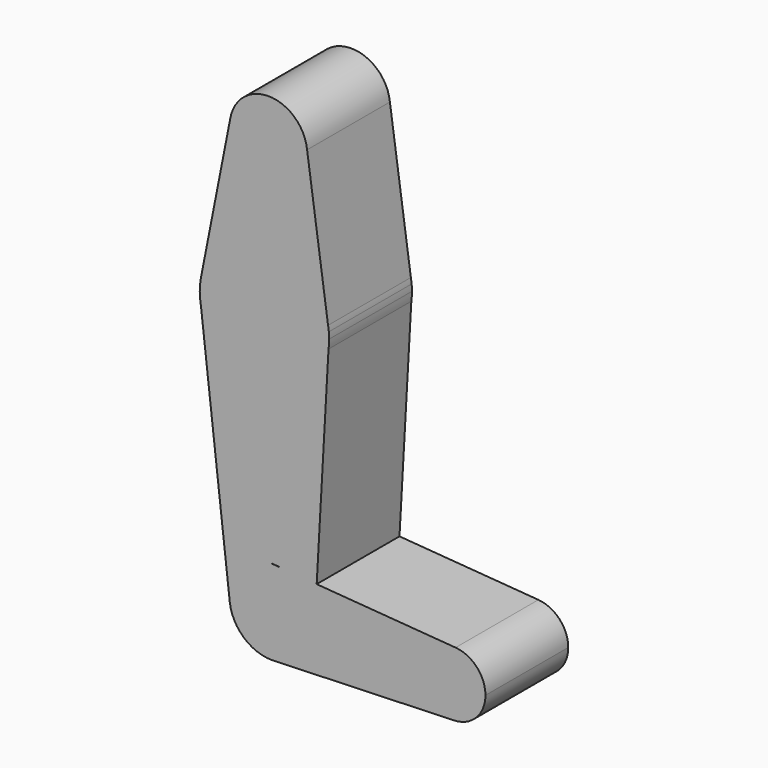
from build123d import *

# Parameters (mm, degrees)
F1_DEPTH = 25.4


with BuildPart() as f1:
    # F0 (on Front) → F1 (new body)
    with BuildSketch(Plane.XZ):
        with BuildLine():
            ThreePointArc((-25.270923, 80.211686), (-16.685877, 69.118101), (-6.356709, 78.609094))
            ThreePointArc((-6.356709, 78.609094), (-6.370167, 79.115242), (-6.410502, 79.61996))
            ThreePointArc((-6.410502, 79.61996), (-15.583019, 88.129409), (-25.270923, 80.211686))
        make_face()
        with BuildLine():
            ThreePointArc((-6.410502, 79.61996), (-6.370167, 79.115242), (-6.356709, 78.609094))
            ThreePointArc((-6.356709, 78.609094), (-16.685877, 69.118101), (-25.270923, 80.211686))
            Line((-25.270923, 80.211686), (-32.456549, 43.534504))
            ThreePointArc((-32.456549, 43.534504), (-16.797117, 56.357165), (-1.268692, 43.376162))
            Line((-1.268692, 43.376162), (-6.410502, 79.61996))
        make_face()
        with BuildLine():
            Line((-1.07973, 42.044204), (-1.268692, 43.376162))
            ThreePointArc((-1.268692, 43.376162), (-16.797117, 56.357165), (-32.456549, 43.534504))
            Line((-32.456549, 43.534504), (-32.456549, 37.430235))
            ThreePointArc((-32.456549, 37.430235), (-16.444514, 24.613281), (-1.155568, 38.284701))
            ThreePointArc((-1.155568, 38.284701), (-1.040974, 39.380881), (-1.002714, 40.482369))
            ThreePointArc((-1.002714, 40.482369), (-1.02198, 41.264236), (-1.07973, 42.044204))
        make_face()
        with BuildLine():
            ThreePointArc((-1.07973, 42.044204), (-1.160095, 42.712186), (-1.268692, 43.376162))
            Line((-1.268692, 43.376162), (-1.07973, 42.044204))
        make_face()
        with BuildLine():
            Line((-32.456549, 37.430235), (-32.456549, 43.534504))
            ThreePointArc((-32.456549, 43.534504), (-32.752714, 40.482369), (-32.456549, 37.430235))
        make_face()
        with BuildLine():
            ThreePointArc((-1.155568, 38.284701), (-16.444514, 24.613281), (-32.456549, 37.430235))
            Line((-32.456549, 37.430235), (-25.390898, -24.178508))
            ThreePointArc((-25.390898, -24.178508), (-22.914287, -16.16678), (-15.338004, -12.572156))
            ThreePointArc((-15.338004, -12.572156), (-14.236036, -12.598485), (-13.14301, -12.741041))
            Line((-13.14301, -12.741041), (-4.059813, -13.439911))
            Line((-4.059813, -13.439911), (-1.155568, 38.284701))
        make_face()
        with BuildLine():
            ThreePointArc((-15.338004, -12.572156), (-22.914287, -16.16678), (-25.390898, -24.178508))
            ThreePointArc((-25.390898, -24.178508), (-21.951109, -30.7895), (-14.976151, -33.413874))
            Line((-14.976151, -33.413874), (-14.393512, -33.394246))
            ThreePointArc((-14.393512, -33.394246), (-7.441734, -30.130543), (-4.612501, -22.990906))
            ThreePointArc((-4.612501, -22.990906), (-7.024118, -16.323273), (-13.14301, -12.741041))
            Line((-13.14301, -12.741041), (-15.338004, -12.572156))
        make_face()
        with BuildLine():
            Line((30.023281, -16.062297), (-4.059813, -13.439911))
            Line((-4.059813, -13.439911), (-13.14301, -12.741041))
            ThreePointArc((-13.14301, -12.741041), (-7.024118, -16.323273), (-4.612501, -22.990906))
            ThreePointArc((-4.612501, -22.990906), (-7.441734, -30.130543), (-14.393512, -33.394246))
            Line((-14.393512, -33.394246), (29.681615, -31.909406))
            ThreePointArc((29.681615, -31.909406), (21.478706, -23.805312), (30.023281, -16.062297))
        make_face()
        with BuildLine():
            Line((-14.393512, -33.394246), (-14.976151, -33.413874))
            ThreePointArc((-14.976151, -33.413874), (-14.684694, -33.408134), (-14.393512, -33.394246))
        make_face()
        with BuildLine():
            ThreePointArc((37.351861, -23.976406), (35.238329, -18.583327), (30.023281, -16.062297))
            ThreePointArc((30.023281, -16.062297), (21.478706, -23.805312), (29.681615, -31.909406))
            ThreePointArc((29.681615, -31.909406), (35.120728, -29.493769), (37.351861, -23.976406))
        make_face()
    extrude(amount=F1_DEPTH)


solid = f1.part
